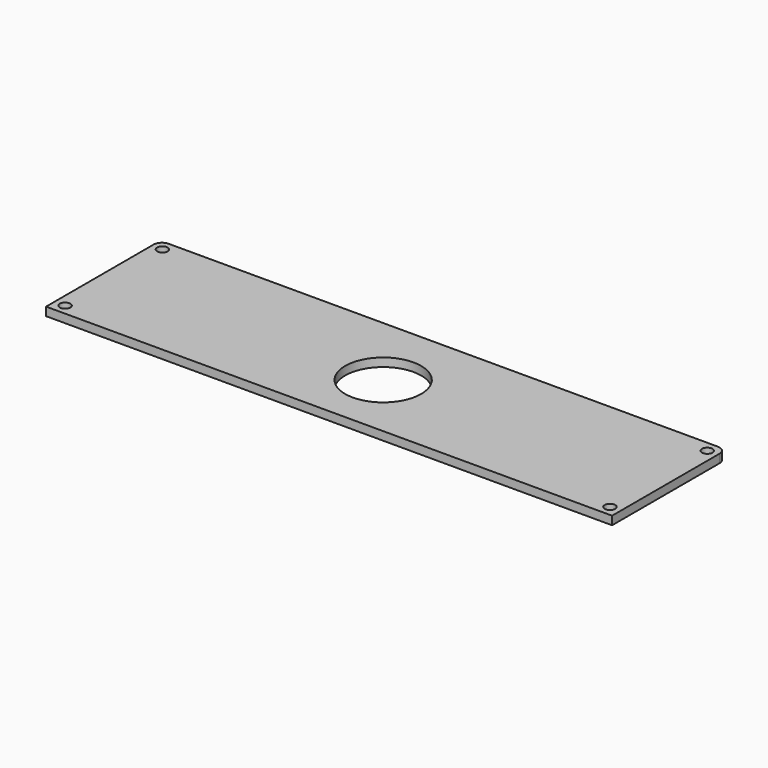
from build123d import *

# Parameters (mm, degrees)
SKETCH_W           = 134
SKETCH_H           = 33.8
PAD_DEPTH          = 2
SKETCH001_R        = 9
POCKET_DEPTH       = 2.001
FILLET_R           = 2
SKETCH002_R        = 1.25
POCKET001_DEPTH    = 278.424154
POLARPATTERN_COUNT = 2


with BuildPart() as part:
    # Sketch → Pad (new body)
    with BuildSketch(Plane.XY):
        Rectangle(SKETCH_W, SKETCH_H)
    extrude(amount=PAD_DEPTH)

    # Sketch001 (on Face6 of Pad) → Pocket (cut, through all)
    with BuildSketch(Plane.XY.offset(2)):
        with Locations((0, -0.9)):
            Circle(SKETCH001_R)
    extrude(amount=-POCKET_DEPTH, mode=Mode.SUBTRACT)

    # Fillet
    fillet_edges = [part.edges().sort_by_distance(p)[0] for p in [
        (-67, 16.9, 1),
        (67, 16.9, 1),
    ]]
    fillet(fillet_edges, radius=FILLET_R)

    # Sketch002 → Pocket001 (cut, through all)
    with BuildSketch(Plane.XY):
        with Locations((-64.5, -14.4)):
            Circle(SKETCH002_R)
    pocket001 = extrude(amount=POCKET001_DEPTH, mode=Mode.SUBTRACT)

    # Mirrored: Pocket001 across YZ
    add(pocket001.mirror(Plane.YZ), mode=Mode.SUBTRACT)

    # Mirrored001: Pocket001 across XZ
    add(pocket001.mirror(Plane.XZ), mode=Mode.SUBTRACT)

    # PolarPattern: Pocket001 ×2 about axis
    polarpattern_axis = Axis((0, 0, 0), (0, 0, 1))
    for i in range(1, POLARPATTERN_COUNT):
        add(pocket001.rotate(polarpattern_axis, i * 360 / POLARPATTERN_COUNT), mode=Mode.SUBTRACT)


solid = part.part
